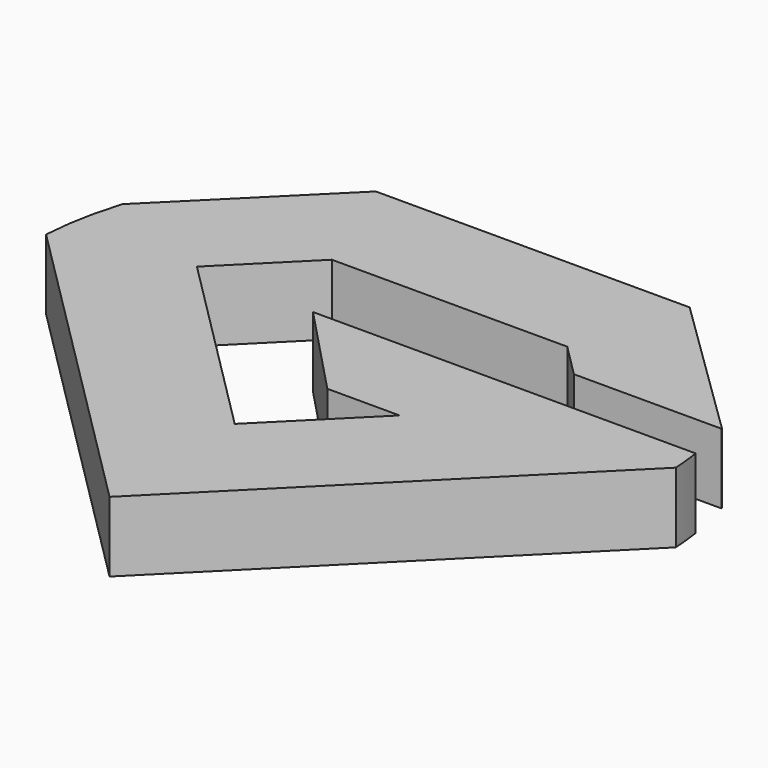
from build123d import *

# Parameters (mm, degrees)
F1_DEPTH = 3.175


with BuildPart() as f1:
    # F0 (on Top) → F1 (new body)
    with BuildSketch(Plane.XY):
        with BuildLine():
            Line((-33.150982, -7.49833), (-47.353942, -7.49833))
            Line((-47.353942, -7.49833), (-53.733369, -13.844786))
            ThreePointArc((-53.733369, -13.844786), (-54.173674, -15.575611), (-54.394606, -17.347845))
            Line((-54.394606, -17.347845), (-40.100355, -31.62653))
            Line((-40.100355, -31.62653), (-25.871525, -17.382187))
            ThreePointArc((-25.871525, -17.382187), (-25.924549, -16.735329), (-26.006896, -16.091546))
            Line((-26.006896, -16.091546), (-43.322302, -16.091546))
            Line((-43.322302, -16.091546), (-39.258681, -20.359896))
            Line((-39.258681, -20.359896), (-35.991574, -20.359896))
            Line((-35.991574, -20.359896), (-40.134102, -24.502424))
            Line((-40.134102, -24.502424), (-48.69533, -15.941199))
            Line((-48.69533, -15.941199), (-45.302402, -12.548271))
            Line((-45.302402, -12.548271), (-34.650184, -12.548271))
            Line((-34.650184, -12.548271), (-33.150982, -14.047472))
            Line((-33.150982, -14.047472), (-26.4712, -14.047472))
            ThreePointArc((-26.4712, -14.047472), (-26.477012, -14.028514), (-26.48285, -14.009564))
            Line((-26.48285, -14.009564), (-33.150982, -7.49833))
        make_face()
    extrude(amount=F1_DEPTH)


solid = f1.part
